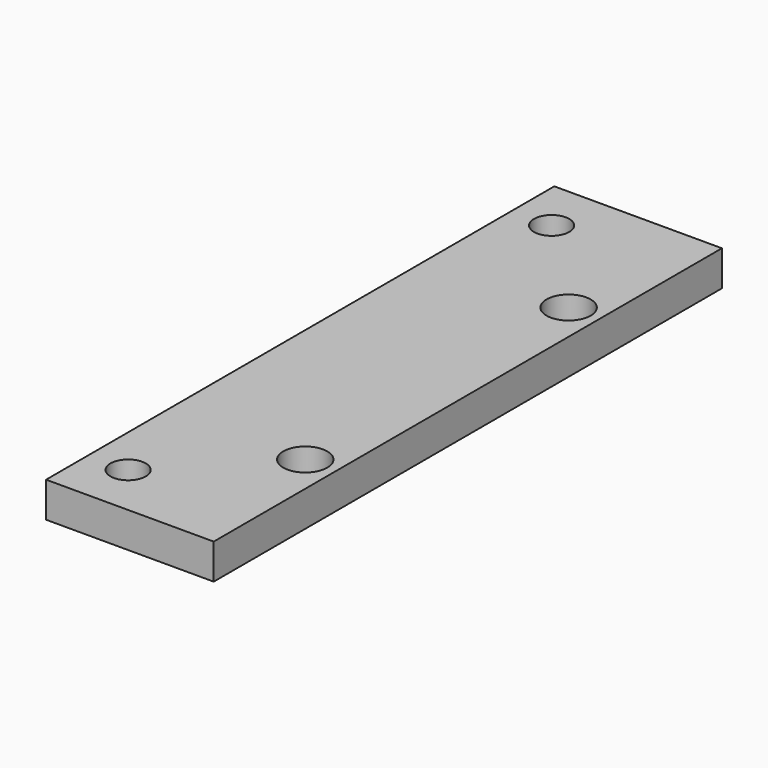
from build123d import *

# Parameters (mm, degrees)
F0_W     = 19
F0_H     = 72
F0_R     = 2
F0_R_2   = 2.5
F1_DEPTH = 4


with BuildPart() as f1:
    # F0 (on Top) → F1 (new body)
    with BuildSketch(Plane.XY):
        Rectangle(F0_W, F0_H)
        with Locations((-5, -30)):
            Circle(F0_R, mode=Mode.SUBTRACT)
        with Locations((6, -18.653125)):
            Circle(F0_R_2, mode=Mode.SUBTRACT)
        with Locations((-5, 30)):
            Circle(F0_R, mode=Mode.SUBTRACT)
        with Locations((6, 18.653125)):
            Circle(F0_R_2, mode=Mode.SUBTRACT)
    extrude(amount=F1_DEPTH)


solid = f1.part
